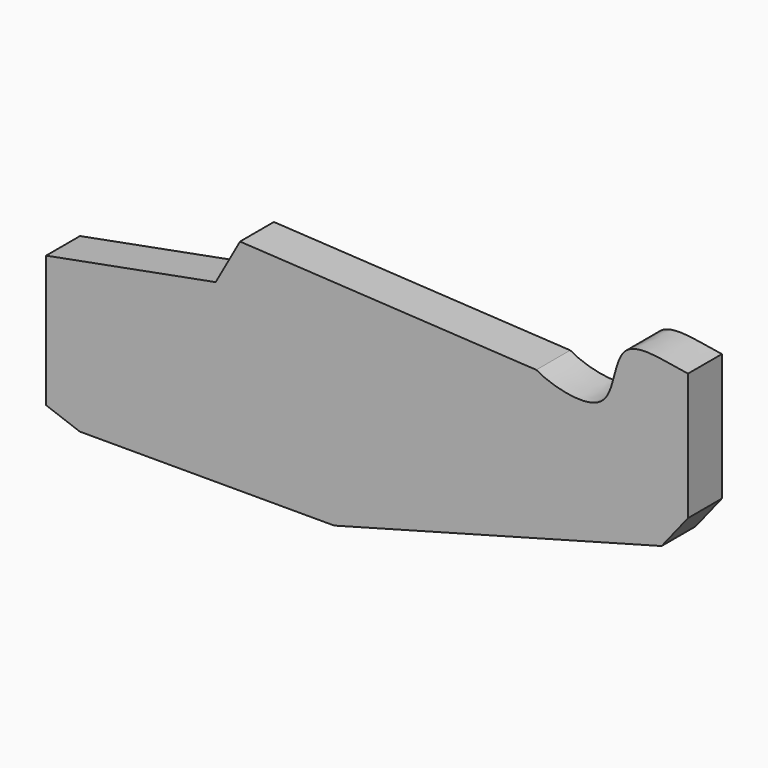
from build123d import *

# Parameters (mm, degrees)
F1_DEPTH = 25.4


with BuildPart() as f1:
    # F0 (on Front) → F1 (new body)
    with BuildSketch(Plane.XZ):
        with BuildLine():
            Line((-99.7336241621, 54.722678585), (-114.3, 28.575))
            Line((-114.3, 28.575), (-215.9, 9.525))
            Line((-215.9, 9.525), (-215.9, -69.3783164024))
            Line((-215.9, -69.3783164024), (-195.6951445265, -76.7280469468))
            Line((-195.6951445265, -76.7280469468), (-43.2951445265, -76.7280469468))
            Line((-43.2951445265, -76.7280469468), (152.8718245721, -23.7303089322))
            Line((152.8718245721, -23.7303089322), (168.681639242, -3.8504256301))
            Line((168.681639242, -3.8504256301), (168.681639242, 72.3495743699))
            add(Edge.make_bspline(
                [(77.7881536934, 44.7799230815), (87.5052503852, 39.1232319061), (127.5069692973, 28.7633708953), (121.8249925186, 85.3969261899), (159.9719213388, 72.9549145345), (168.681639242, 72.3495743699)],
                knots=[0, 0, 0, 0, 0.3442648382, 0.6685351867, 1, 1, 1, 1], degree=3))
            Line((77.7881536934, 44.7799230815), (-99.7336241621, 54.722678585))
        make_face()
    extrude(amount=F1_DEPTH)


solid = f1.part
